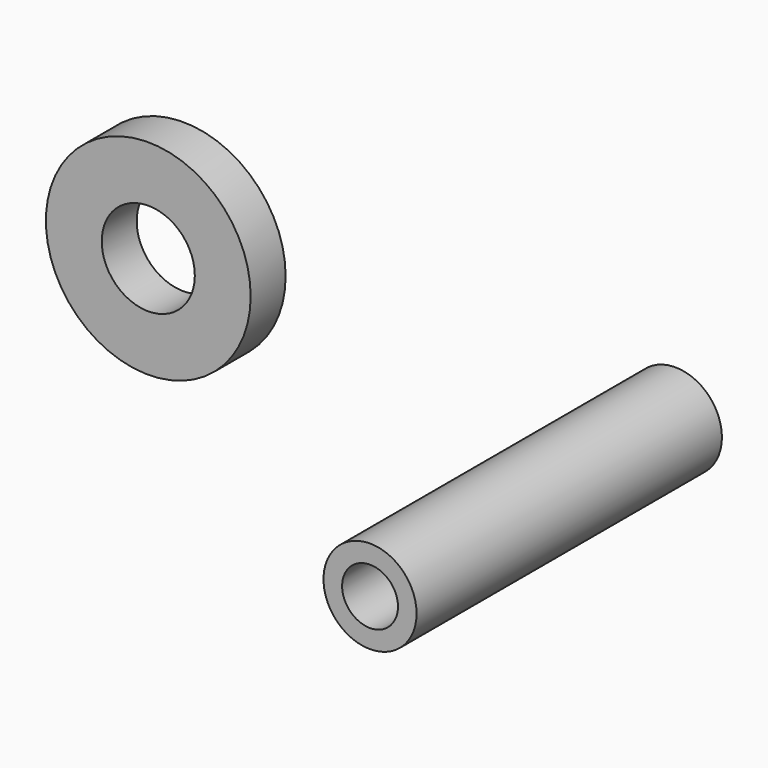
from build123d import *

# Parameters (mm, degrees)
F0_R     = 5
F0_R_2   = 3
F1_DEPTH = 41.0036
F0_R_3   = 11
F2_DEPTH = 4.69513


with BuildPart() as f1:
    # F0 (on Front) → F1 (new body)
    with BuildSketch(Plane.XZ):
        Circle(F0_R)
        Circle(F0_R_2, mode=Mode.SUBTRACT)
    extrude(amount=F1_DEPTH)

    # F0 (on Front) → F2 (join)
    with BuildSketch(Plane.XZ):
        Circle(F0_R)
        Circle(F0_R_2, mode=Mode.SUBTRACT)
        with Locations((-52.871026, 0)):
            Circle(F0_R_3)
        with Locations((-52.871026, 0)):
            Circle(F0_R, mode=Mode.SUBTRACT)
    extrude(amount=F2_DEPTH)


solid = f1.part
